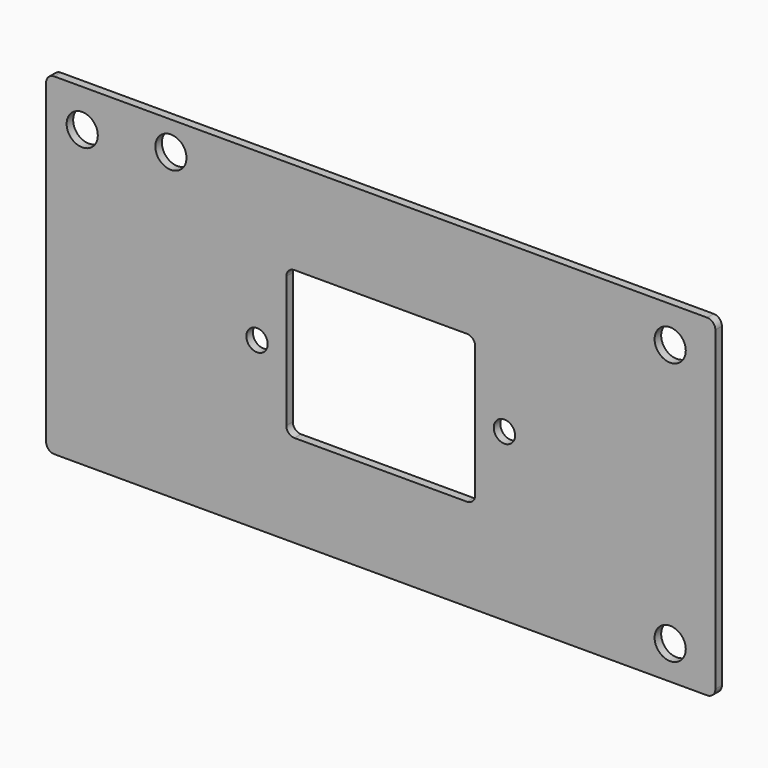
from build123d import *

# Parameters (mm, degrees)
SKETCH_W                  = 81.5
SKETCH_H                  = 40.5
SKETCH_R                  = 1.89865
SKETCH_R_2                = 1.3
SKETCH_W_2                = 23
SKETCH_H_2                = 18
EXTRUDE001_DEPTH          = 1
FILLET_R                  = 1
FILLET001_R               = 1
FILLET001_PLACEMENT_ANGLE = 90


with BuildPart() as part:
    # Sketch → Extrude001 (new body)
    with BuildSketch(Plane.XY):
        Rectangle(SKETCH_W, SKETCH_H)
        with Locations((-36.35, 15.65)):
            Circle(SKETCH_R, mode=Mode.SUBTRACT)
        with Locations((-25.55, 16.75)):
            Circle(SKETCH_R, mode=Mode.SUBTRACT)
        with Locations((35.25, -16.15)):
            Circle(SKETCH_R, mode=Mode.SUBTRACT)
        with Locations((35.25, 15.85)):
            Circle(SKETCH_R, mode=Mode.SUBTRACT)
        with Locations((-15.0625, 0)):
            Circle(SKETCH_R_2, mode=Mode.SUBTRACT)
        with Locations((15.0625, 0)):
            Circle(SKETCH_R_2, mode=Mode.SUBTRACT)
        Rectangle(SKETCH_W_2, SKETCH_H_2, mode=Mode.SUBTRACT)
    extrude(amount=EXTRUDE001_DEPTH)

    # Fillet
    fillet_edges = [part.edges().sort_by_distance(p)[0] for p in [
        (-40.75, 20.25, 0.5),
        (40.75, 20.25, 0.5),
        (40.75, -20.25, 0.5),
        (-40.75, -20.25, 0.5),
    ]]
    fillet(fillet_edges, radius=FILLET_R)

    # Fillet001
    fillet001_edges = [part.edges().sort_by_distance(p)[0] for p in [
        (-11.5, 9, 0.5),
        (11.5, 9, 0.5),
        (11.5, -9, 0.5),
        (-11.5, -9, 0.5),
    ]]
    fillet(fillet001_edges, radius=FILLET001_R)


with BuildPart() as part_1:
    # Fillet001 placement: moved
    add(part.part.rotate(Axis((0, 0, 0), (1, 0, 0)), FILLET001_PLACEMENT_ANGLE))


solid = part_1.part
